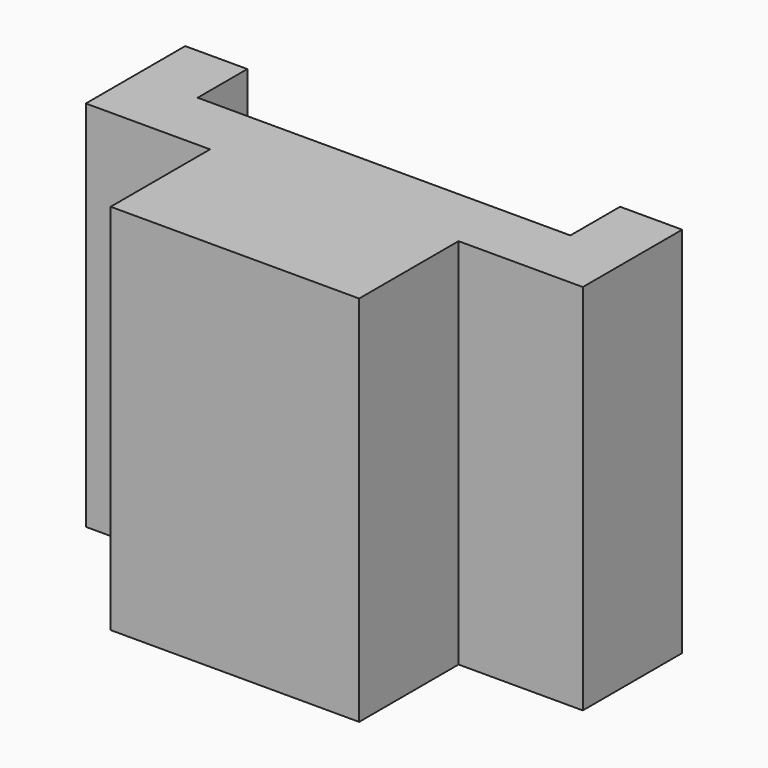
from build123d import *

# Parameters (mm, degrees)
F0_W     = 80
F0_H     = 60
F1_DEPTH = 40
F2_W     = 20
F2_H     = 60
F3_DEPTH = 20
F4_W     = 60
F4_H     = 60
F5_DEPTH = 10


with BuildPart() as f1:
    # F0 (on Front) → F1 (new body)
    with BuildSketch(Plane.XZ):
        with Locations((40, 30)):
            Rectangle(F0_W, F0_H)
    extrude(amount=F1_DEPTH)

    # F2 (on face) → F3 (cut)
    with BuildSketch(Plane.XZ.offset(40)):
        with Locations((10, 30)):
            Rectangle(F2_W, F2_H)
        with Locations((70, 30)):
            Rectangle(F2_W, F2_H)
    extrude(amount=-F3_DEPTH, mode=Mode.SUBTRACT)

    # F4 (on face) → F5 (cut)
    with BuildSketch(Plane(origin=(0, 0, 0), x_dir=(-1, 0, 0), z_dir=(0, 1, 0))):
        with Locations((-40, 30)):
            Rectangle(F4_W, F4_H)
    extrude(amount=-F5_DEPTH, mode=Mode.SUBTRACT)


solid = f1.part
